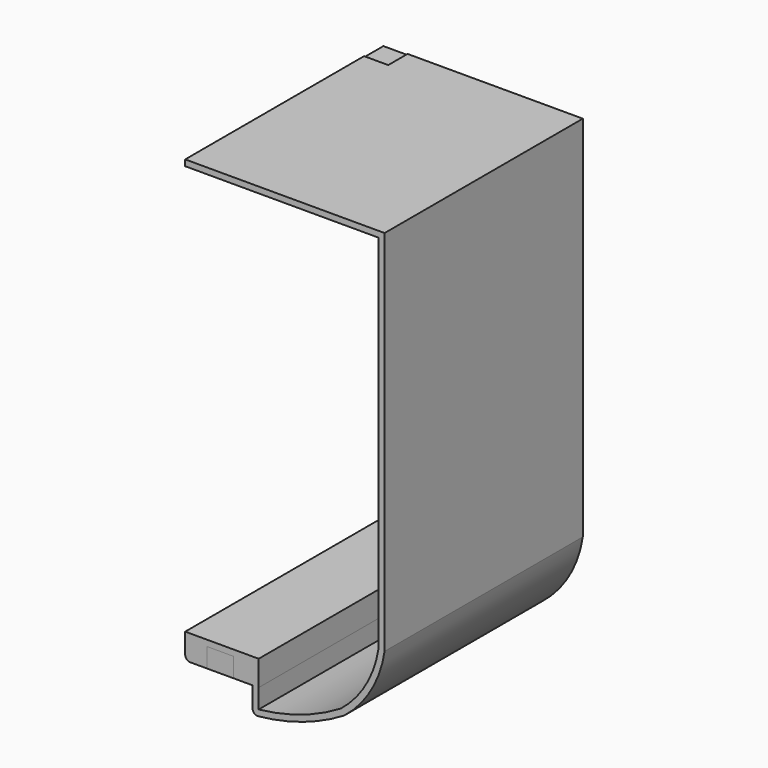
from build123d import *

# Parameters (mm, degrees)
F1_DEPTH  = 2.5
F2_DEPTH  = 2.2
F4_DEPTH  = 100
F5_W      = 11
F5_H      = 8
F6_DEPTH  = 10
F7_R      = 5
F8_R      = 2
F9_W      = 10
F9_H      = 10
F9_R      = 2.5
F10_DEPTH = 0.4


with BuildPart() as f1:
    # F0 (on Front) → F1 (new body)
    with BuildSketch(Plane.XZ):
        with BuildLine():
            Line((-82.5, 182.5), (-82.5, 0))
            Line((-82.5, 0), (-73.5, 0))
            Line((-73.5, 0), (-73.5, 8))
            Line((-73.5, 8), (-62.5, 8))
            Line((-62.5, 8), (-62.5, 0))
            Line((-62.5, 0), (-54.6057512313, 0))
            Line((-54.6057512313, 0), (-54.6047807907, -10.7011169374))
            ThreePointArc((-54.6047807907, -10.7011169374), (-53.3539902072, -10.6015296646), (-52.104800511, -10.4835474141))
            ThreePointArc((-52.104800511, -10.4835474141), (-33.7636269449, -6.5405298903), (-16.7286675849, 1.3179810741))
            ThreePointArc((-16.7286675849, 1.3179810741), (-5.6129224967, 14.1453039848), (0, 30.1638901573))
            Line((0, 30.1638901573), (0, 182.5))
            Line((0, 182.5), (-82.5, 182.5))
        make_face()
    extrude(amount=F1_DEPTH)

    # F0 (on Front) → F2 (join)
    with BuildSketch(Plane.XZ):
        with BuildLine():
            Line((-82.5, 182.5), (-82.5, 0))
            Line((-82.5, 0), (-73.5, 0))
            Line((-73.5, 0), (-73.5, 8))
            Line((-73.5, 8), (-62.5, 8))
            Line((-62.5, 8), (-62.5, 0))
            Line((-62.5, 0), (-54.6057512313, 0))
            Line((-54.6057512313, 0), (-54.6047807907, -10.7011169374))
            ThreePointArc((-54.6047807907, -10.7011169374), (-53.3539902072, -10.6015296646), (-52.104800511, -10.4835474141))
            ThreePointArc((-52.104800511, -10.4835474141), (-33.7636269449, -6.5405298903), (-16.7286675849, 1.3179810741))
            ThreePointArc((-16.7286675849, 1.3179810741), (-5.6129224967, 14.1453039848), (0, 30.1638901573))
            Line((0, 30.1638901573), (0, 182.5))
            Line((0, 182.5), (-82.5, 182.5))
        make_face()
    extrude(amount=F2_DEPTH)

    # F3 (on face) → F4 (join)
    with BuildSketch(Plane.XZ.offset(2.5)):
        with BuildLine():
            Line((-52.1050284328, -7.9702374423), (-52.1057512416, 0.0002267148))
            Line((-52.1057512416, 0.0002267148), (-52.1057512416, 8))
            Line((-52.1057512416, 8), (-52.1057512416, 10.5))
            Line((-52.1057512416, 10.5), (-62.5, 10.5))
            Line((-62.5, 10.5), (-82.5, 10.5))
            Line((-82.5, 10.5), (-82.5, 0))
            Line((-82.5, 0), (-73.5, 0))
            Line((-73.5, 0), (-73.5, 8))
            Line((-73.5, 8), (-62.5, 8))
            Line((-62.5, 8), (-62.5, 0))
            Line((-62.5, 0), (-54.6057512313, 0))
            Line((-54.6057512313, 0), (-54.6047807907, -10.7011169374))
            ThreePointArc((-54.6047807907, -10.7011169374), (-34.9567798568, -6.9288349734), (-16.7286675849, 1.3179810741))
            ThreePointArc((-16.7286675849, 1.3179810741), (-5.6129224967, 14.1453039848), (0, 30.1638901573))
            Line((0, 30.1638901573), (0, 182.5))
            Line((0, 182.5), (-82.5, 182.5))
            Line((-82.5, 182.5), (-82.5, 180))
            Line((-82.5, 180), (-2.5, 180))
            Line((-2.5, 180), (-2.5, 30.352550517))
            ThreePointArc((-2.5, 30.352550517), (-7.7823306987, 15.3878258145), (-18.1551322047, 3.3773723696))
            ThreePointArc((-18.1551322047, 3.3773723696), (-34.5092579263, -4.1538153816), (-52.1050284328, -7.9702374423))
        make_face()
    extrude(amount=F4_DEPTH)

    # F7
    f7_edges = [f1.edges().sort_by_distance(p)[0] for p in [
        (-62.5, 0, 4),
        (-73.5, 0, 4),
    ]]
    fillet(f7_edges, radius=F7_R)

    # F8
    f8_edges = [f1.edges().sort_by_distance(p)[0] for p in [
        (-54.604781, -51.25, -10.701117),
        (-82.5, -51.25, 0),
    ]]
    fillet(f8_edges, radius=F8_R)

    # F9 (on face) → F10 (cut)
    with BuildSketch(Plane.XY.offset(182.5)):
        with Locations((-77.5, -5)):
            Rectangle(F9_W, F9_H)
        with Locations((-77.5, -5)):
            Circle(F9_R, mode=Mode.SUBTRACT)
        with Locations((-77.5, -5)):
            Circle(F9_R)
    extrude(amount=-F10_DEPTH, mode=Mode.SUBTRACT)


with BuildPart() as f6:
    # F5 (on face) → F6 (new body)
    with BuildSketch(Plane.XZ.offset(102.5)):
        with Locations((-68, 4)):
            Rectangle(F5_W, F5_H)
    extrude(amount=-F6_DEPTH)


solid = Compound([f1.part, f6.part])
